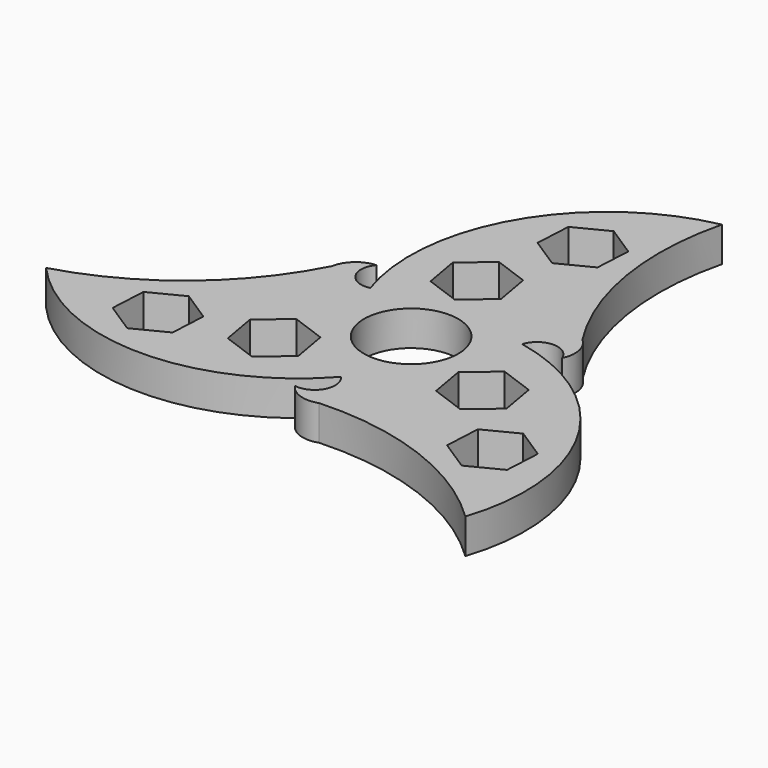
from build123d import *

# Parameters (mm, degrees)
F0_R     = 9.45
F1_DEPTH = 7


with BuildPart() as f1:
    # F0 (on Top) → F1 (new body)
    with BuildSketch(Plane.XY):
        with BuildLine():
            ThreePointArc((-24.555476, 10.805503), (-38.89385, -6.957617), (-59.095755, -17.587779))
            ThreePointArc((-59.095755, -17.587779), (-29.547878, -30.85808), (0, -17.587779))
            ThreePointArc((0, -17.587779), (0.616641, -22.365553), (-3.718256, -24.466991))
            ThreePointArc((-3.718256, -24.466991), (-0.778036, -26.710105), (2.919898, -26.668418))
            ThreePointArc((2.919898, -26.668418), (25.472398, -30.204253), (44.779341, -42.384536))
            ThreePointArc((44.779341, -42.384536), (41.49782, -10.160173), (15.231463, 8.79389))
            ThreePointArc((15.231463, 8.79389), (19.060817, 11.716804), (23.048163, 9.013391))
            ThreePointArc((23.048163, 9.013391), (23.520647, 12.681254), (21.635578, 15.862915))
            ThreePointArc((21.635578, 15.862915), (13.421452, 37.16187), (14.316414, 59.972315))
            ThreePointArc((14.316414, 59.972315), (-11.949942, 41.018252), (-15.231463, 8.79389))
            ThreePointArc((-15.231463, 8.79389), (-19.677458, 10.64875), (-19.329907, 15.453599))
            ThreePointArc((-19.329907, 15.453599), (-22.742611, 14.028851), (-24.555476, 10.805503))
        make_face()
        Polygon((-42.121576, -14.415283), (-35.661778, -11.123852), (-29.581417, -15.072485), (-29.960852, -22.312549), (-36.42065, -25.60398), (-42.501011, -21.655347), align=None, mode=Mode.SUBTRACT)
        Polygon((-17.690603, -6.647938), (-10.877831, -9.127584), (-9.618882, -16.26744), (-15.172704, -20.92765), (-21.985476, -18.448004), (-23.244425, -11.308148), align=None, mode=Mode.SUBTRACT)
        Polygon((33.544789, -29.270713), (27.464427, -25.32208), (27.843863, -18.082016), (34.30366, -14.790585), (40.384022, -18.739218), (40.004586, -25.979282), align=None, mode=Mode.SUBTRACT)
        Polygon((14.602585, -11.996542), (13.343635, -4.856686), (18.897457, -0.196476), (25.710229, -2.676122), (26.969178, -9.815978), (21.415356, -14.476188), align=None, mode=Mode.SUBTRACT)
        Circle(F0_R, mode=Mode.SUBTRACT)
        Polygon((-10.537525, 23.603772), (-4.983703, 28.263983), (1.829069, 25.784336), (3.088018, 18.64448), (-2.465804, 13.98427), (-9.278576, 16.463916), align=None, mode=Mode.SUBTRACT)
        Polygon((-3.963372, 44.343198), (2.496425, 47.634629), (8.576787, 43.685996), (8.197351, 36.445932), (1.737554, 33.154501), (-4.342808, 37.103134), align=None, mode=Mode.SUBTRACT)
    extrude(amount=F1_DEPTH)


solid = f1.part
